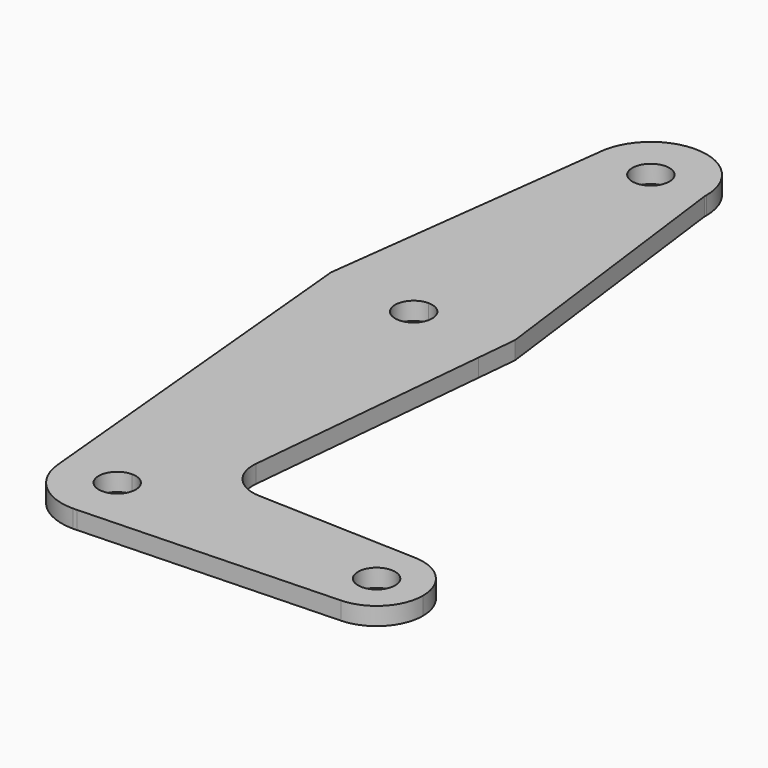
from build123d import *

# Parameters (mm, degrees)
F1_DEPTH = 3.048


with BuildPart() as f1:
    # F0 (on Top) → F1 (new body)
    with BuildSketch(Plane.XY):
        with BuildLine():
            Line((0, 51.7826546905), (0, 77.1826546905))
            ThreePointArc((0, 77.1826546905), (-6.9462221966, 80.1903222458), (-9.50568804, 87.3138888752))
            Line((-9.50568804, 87.3138888752), (-15.7497666475, 37.8977490471))
            ThreePointArc((-15.7497666475, 37.8977490471), (-10.4981635796, 47.8158109901), (0, 51.7826546905))
        make_face()
        with BuildLine():
            ThreePointArc((9.5175516806, 86.3310448043), (6.6006975326, 79.8406016775), (0, 77.1826546905))
            Line((0, 77.1826546905), (0, 51.7826546905))
            ThreePointArc((0, 51.7826546905), (10.4845640527, 47.8277864693), (15.7451823813, 37.9336993046))
            Line((15.7451823813, 37.9336993046), (9.5175516806, 86.3310448043))
        make_face()
        with BuildLine():
            ThreePointArc((0, 20.0326546905), (-9.3325132098, 23.0655434081), (-15.0991084327, 31.0053542572))
            Line((-15.0991084327, 31.0053542572), (-9.4828391302, -28.4875475387))
            ThreePointArc((-9.4828391302, -28.4875475387), (-7.0445875051, -21.181463008), (0, -18.0673453095))
            Line((0, -18.0673453095), (0, 20.0326546905))
        make_face()
        with BuildLine():
            Line((11.0621964209, -11.7361698381), (15.0890525886, 30.9744896841))
            ThreePointArc((15.0890525886, 30.9744896841), (9.3193784805, 23.0560085026), (0, 20.0326546905))
            Line((0, 20.0326546905), (0, -18.0673453095))
            ThreePointArc((0, -18.0673453095), (6.7351920908, -20.8571532187), (9.525, -27.5923453095))
            Line((9.525, -27.5923453095), (36.5125, -27.5923453095))
            ThreePointArc((36.5125, -27.5923453095), (38.9380895153, -21.8807125256), (44.7324052746, -19.6598706949))
            Line((44.7324052746, -19.6598706949), (17.1582359617, -18.6781983627))
            ThreePointArc((17.1582359617, -18.6781983627), (12.6127191769, -16.5221889264), (11.0621964209, -11.7361698381))
        make_face()
        with BuildLine():
            Line((36.5125, -27.5923453095), (9.525, -27.5923453095))
            ThreePointArc((9.525, -27.5923453095), (6.9705567315, -34.0836443978), (0.6773435479, -37.0932310955))
            Line((0.6773435479, -37.0932310955), (44.7324052746, -35.5248199241))
            ThreePointArc((44.7324052746, -35.5248199241), (38.9380895153, -33.3039780934), (36.5125, -27.5923453095))
        make_face()
        with BuildLine():
            ThreePointArc((15.7451823813, 37.9336993046), (10.4845640527, 47.8277864693), (0, 51.7826546905))
            Line((0, 51.7826546905), (0, 39.0826546905))
            ThreePointArc((0, 39.0826546905), (2.2450640303, 38.1527187208), (3.175, 35.9076546905))
            ThreePointArc((3.175, 35.9076546905), (2.2450640303, 33.6625906602), (0, 32.7326546905))
            Line((0, 32.7326546905), (0, 20.0326546905))
            ThreePointArc((0, 20.0326546905), (9.3193784805, 23.0560085026), (15.0890525886, 30.9744896841))
            Line((15.0890525886, 30.9744896841), (15.7451823813, 37.9336993046))
        make_face()
        with BuildLine():
            Line((0, 39.0826546905), (0, 51.7826546905))
            ThreePointArc((0, 51.7826546905), (-10.4981635796, 47.8158109901), (-15.7497666475, 37.8977490471))
            Line((-15.7497666475, 37.8977490471), (-15.0991084327, 31.0053542572))
            ThreePointArc((-15.0991084327, 31.0053542572), (-9.3325132098, 23.0655434081), (0, 20.0326546905))
            Line((0, 20.0326546905), (0, 32.7326546905))
            ThreePointArc((0, 32.7326546905), (-3.175, 35.9076546905), (0, 39.0826546905))
        make_face()
        with BuildLine():
            ThreePointArc((-9.50568804, 87.3138888752), (-6.9462221966, 80.1903222458), (0, 77.1826546905))
            ThreePointArc((0, 77.1826546905), (6.6006975326, 79.8406016775), (9.5175516806, 86.3310448043))
            ThreePointArc((9.5175516806, 86.3310448043), (9.5231377381, 86.5193129241), (9.525, 86.7076546905))
            ThreePointArc((9.525, 86.7076546905), (0.3032708519, 96.2278254763), (-9.50568804, 87.3138888752))
        make_face()
        with BuildLine():
            ThreePointArc((3.175, 86.7076546905), (2.2450640303, 84.4625906602), (0, 83.5326546905))
            ThreePointArc((0, 83.5326546905), (-2.2450640303, 88.9527187208), (3.175, 86.7076546905))
        make_face(mode=Mode.SUBTRACT)
        with BuildLine():
            ThreePointArc((0, -18.0673453095), (-7.0445875051, -21.181463008), (-9.4828391302, -28.4875475387))
            ThreePointArc((-9.4828391302, -28.4875475387), (-6.4108823015, -34.6369328146), (0, -37.1173453095))
            Line((0, -37.1173453095), (0.6773435479, -37.0932310955))
            ThreePointArc((0.6773435479, -37.0932310955), (6.9705567315, -34.0836443978), (9.525, -27.5923453095))
            Line((9.525, -27.5923453095), (3.175, -27.5923453095))
            ThreePointArc((3.175, -27.5923453095), (-2.2450640303, -29.8374093398), (0, -24.4173453095))
            Line((0, -24.4173453095), (0, -18.0673453095))
        make_face()
        with BuildLine():
            ThreePointArc((9.525, -27.5923453095), (6.7351920908, -20.8571532187), (0, -18.0673453095))
            Line((0, -18.0673453095), (0, -24.4173453095))
            ThreePointArc((0, -24.4173453095), (2.2450640303, -25.3472812792), (3.175, -27.5923453095))
            Line((3.175, -27.5923453095), (9.525, -27.5923453095))
        make_face()
        with BuildLine():
            ThreePointArc((52.3875, -27.5923453095), (50.1616327839, -22.0804348248), (44.7324052746, -19.6598706949))
            ThreePointArc((44.7324052746, -19.6598706949), (38.9380895153, -21.8807125256), (36.5125, -27.5923453095))
            ThreePointArc((36.5125, -27.5923453095), (38.9380895153, -33.3039780934), (44.7324052746, -35.5248199241))
            ThreePointArc((44.7324052746, -35.5248199241), (50.1616327839, -33.1042557942), (52.3875, -27.5923453095))
        make_face()
        with BuildLine():
            ThreePointArc((47.625, -27.5923453095), (44.45, -30.7673453095), (41.275, -27.5923453095))
            ThreePointArc((41.275, -27.5923453095), (44.45, -24.4173453095), (47.625, -27.5923453095))
        make_face(mode=Mode.SUBTRACT)
    extrude(amount=F1_DEPTH)


solid = f1.part
